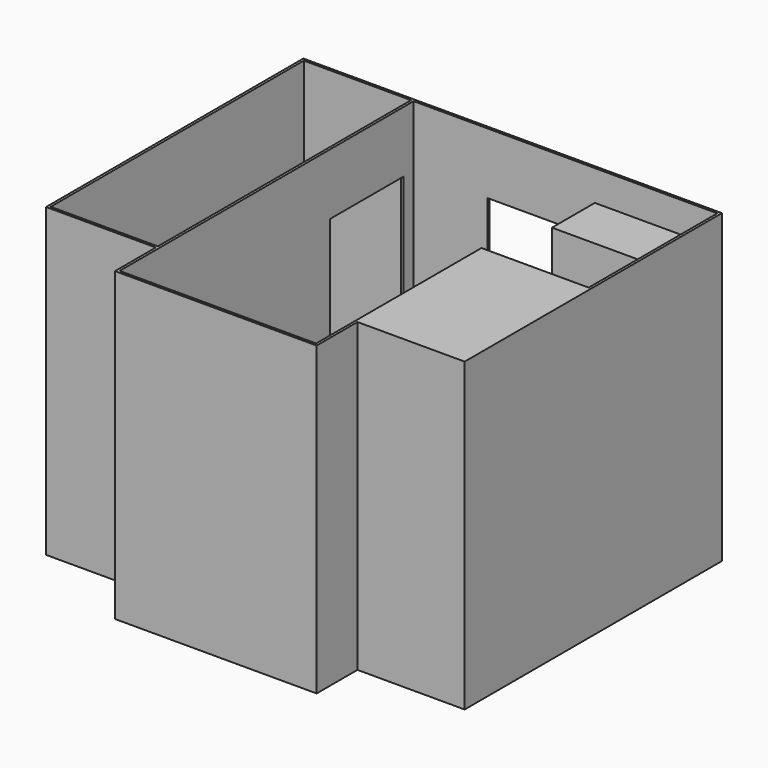
from build123d import *

# Parameters (mm, degrees)
F5_DEPTH  = 3048
F7_T      = -25.4
F6_W      = 1066.8
F6_H      = 2438.4
F8_DEPTH  = 25.4
F1_W      = 1117.6
F1_H      = 3200.4
F9_DEPTH  = 3048
F2_W      = 1092.2
F2_H      = 1574.8
F10_DEPTH = 3048
F4_W      = 558.8
F4_H      = 1981.2
F11_DEPTH = 889
F3_W      = 1244.6
F3_H      = 558.8
F12_DEPTH = 508
F13_W     = 1219.2
F13_H     = 533.4
F14_DEPTH = 2235.2
F16_W     = 1066.8
F16_H     = 3149.6
F17_DEPTH = 3022.6
F15_W     = 914.4
F15_H     = 2413
F18_DEPTH = 25.4
F19_W     = 1066.8
F19_H     = 406.4
F20_DEPTH = 508


with BuildPart() as f5:
    # F0 (on Top) → F5 (new body)
    with BuildSketch(Plane.XY):
        Polygon((4165.6, 0), (0, 0), (0, -3200.4), (1092.2, -3200.4), (1092.2, -3708.4), (3098.8, -3708.4), (3098.8, -3200.4), (4165.6, -3200.4), align=None)
    extrude(amount=F5_DEPTH)

    # F7
    f7_openings = [f5.faces().sort_by_distance(p)[0] for p in [
        (2083.702086, -1731.90455, 3048),
    ]]
    offset(amount=F7_T, openings=f7_openings, kind=Kind.INTERSECTION)

    # F6 (on face) → F8 (cut, through all)
    with BuildSketch(Plane(origin=(0, 0, 0), x_dir=(-1, 0, 0), z_dir=(0, 1, 0))):
        with Locations((-2387.6, 1219.2)):
            Rectangle(F6_W, F6_H)
    extrude(amount=-F8_DEPTH, mode=Mode.SUBTRACT)

    # F1 (on face) → F9 (join)
    with BuildSketch(Plane.XY):
        with Locations((558.8, -1600.2)):
            Rectangle(F1_W, F1_H)
    extrude(amount=F9_DEPTH)

    # F2 (on face) → F10 (join)
    with BuildSketch(Plane.XY):
        with Locations((3619.5, -2413)):
            Rectangle(F2_W, F2_H)
    extrude(amount=F10_DEPTH)

    # F4 (on Top) → F11 (join)
    with BuildSketch(Plane.XY):
        with Locations((2794, -2667)):
            Rectangle(F4_W, F4_H)
    extrude(amount=F11_DEPTH)

    # F3 (on face) → F12 (join)
    with BuildSketch(Plane.XY):
        with Locations((3543.3, -279.4)):
            Rectangle(F3_W, F3_H)
    extrude(amount=F12_DEPTH)

    # F13 (on face) → F14 (join)
    with BuildSketch(Plane.XY.offset(508)):
        with Locations((3530.6, -292.1)):
            Rectangle(F13_W, F13_H)
    extrude(amount=F14_DEPTH)

    # F16 (on face) → F17 (cut)
    with BuildSketch(Plane.XY.offset(3048)):
        with Locations((558.8, -1600.2)):
            Rectangle(F16_W, F16_H)
    extrude(amount=-F17_DEPTH, mode=Mode.SUBTRACT)

    # F15 (on face) → F18 (cut)
    with BuildSketch(Plane.YZ.offset(1117.6)):
        with Locations((-609.6, 1231.9)):
            Rectangle(F15_W, F15_H)
    extrude(amount=-F18_DEPTH, mode=Mode.SUBTRACT)

    # F19 (on face) → F20 (join)
    with BuildSketch(Plane.XY.offset(25.4)):
        with Locations((558.8, -2971.8)):
            Rectangle(F19_W, F19_H)
    extrude(amount=F20_DEPTH)


solid = f5.part
